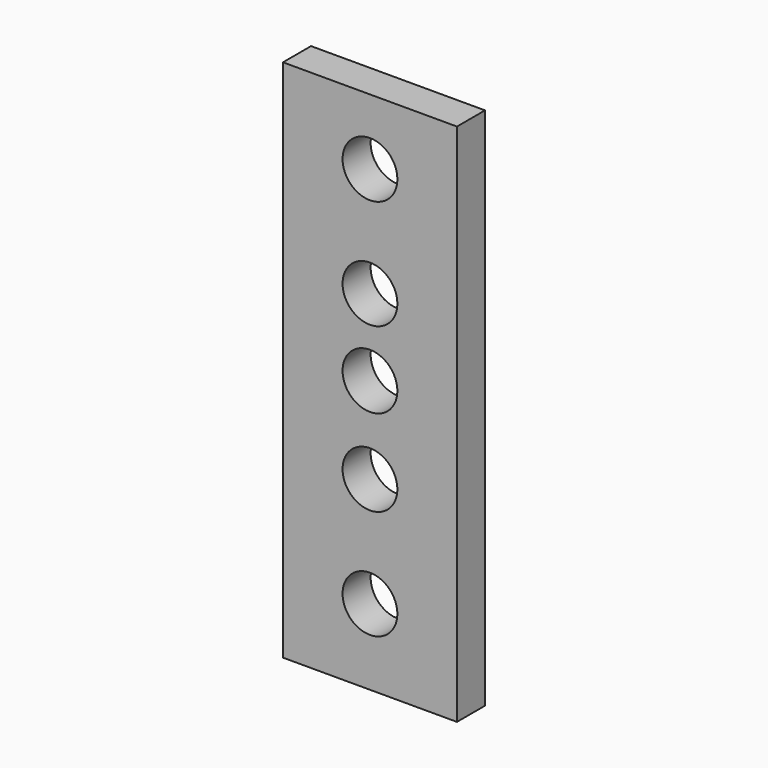
from build123d import *

# Parameters (mm, degrees)
F0_W     = 15.87
F0_H     = 47.81
F0_R     = 2.5
F1_DEPTH = 3.2


with BuildPart() as f1:
    # F0 (on Front) → F1 (new body)
    with BuildSketch(Plane.XZ):
        Rectangle(F0_W, F0_H)
        with Locations((0, -17)):
            Circle(F0_R, mode=Mode.SUBTRACT)
        with Locations((0, -7)):
            Circle(F0_R, mode=Mode.SUBTRACT)
        with Locations((0, 0.905)):
            Circle(F0_R, mode=Mode.SUBTRACT)
        with Locations((0, 7.905)):
            Circle(F0_R, mode=Mode.SUBTRACT)
        with Locations((0, 17.905)):
            Circle(F0_R, mode=Mode.SUBTRACT)
    extrude(amount=F1_DEPTH)


solid = f1.part
